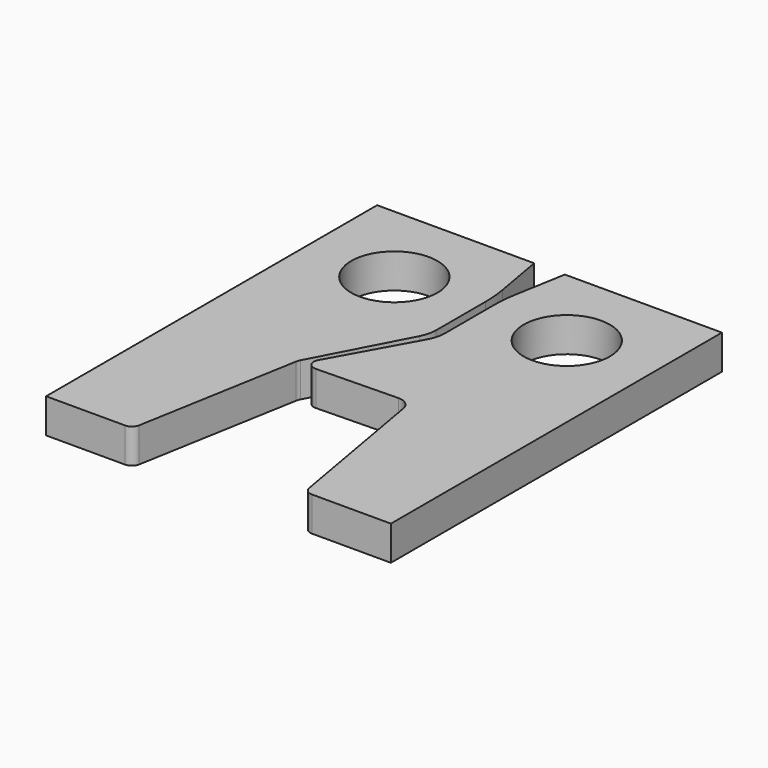
from build123d import *

# Parameters (mm, degrees)
F0_R     = 15.875
F1_DEPTH = 12.7
F2_R     = 12.7
F3_R     = 50.8
F4_R     = 3.175
F5_R     = 5.08
F6_R     = 3.175


with BuildPart() as f1:
    # F0 (on Top) → F1 (new body)
    with BuildSketch(Plane.XY):
        Polygon((31.75, -76.2), (63.5, -76.2), (63.5, 76.2), (5.651776, 76.2), (1.5875, 53.150346), (1.5875, 22.907235), (-19.10167, -14.546104), (20.723341, -13.664708), align=None)
        with Locations((31.75, 44.45)):
            Circle(F0_R, mode=Mode.SUBTRACT)
        Polygon((-63.5, -76.2), (-31.75, -76.2), (-20.723341, -13.664708), (-1.5875, 22.907235), (-1.5875, 53.150346), (-5.651776, 76.2), (-63.5, 76.2), align=None)
        with Locations((-31.75, 44.45)):
            Circle(F0_R, mode=Mode.SUBTRACT)
    extrude(amount=F1_DEPTH)

    # F2
    f2_edges = [f1.edges().sort_by_distance(p)[0] for p in [
        (1.5875, 22.907235, 6.35),
        (-1.5875, 22.907235, 6.35),
    ]]
    fillet(f2_edges, radius=F2_R)

    # F3
    f3_edges = [f1.edges().sort_by_distance(p)[0] for p in [
        (1.5875, 53.150346, 6.35),
        (-1.5875, 53.150346, 6.35),
    ]]
    fillet(f3_edges, radius=F3_R)

    # F4
    f4_edges = [f1.edges().sort_by_distance(p)[0] for p in [
        (-19.10167, -14.546104, 6.35),
    ]]
    fillet(f4_edges, radius=F4_R)

    # F5
    f5_edges = [f1.edges().sort_by_distance(p)[0] for p in [
        (20.723341, -13.664708, 6.35),
        (-20.723341, -13.664708, 6.35),
    ]]
    fillet(f5_edges, radius=F5_R)

    # F6
    f6_edges = [f1.edges().sort_by_distance(p)[0] for p in [
        (-31.75, -76.2, 6.35),
        (31.75, -76.2, 6.35),
    ]]
    fillet(f6_edges, radius=F6_R)


solid = f1.part
